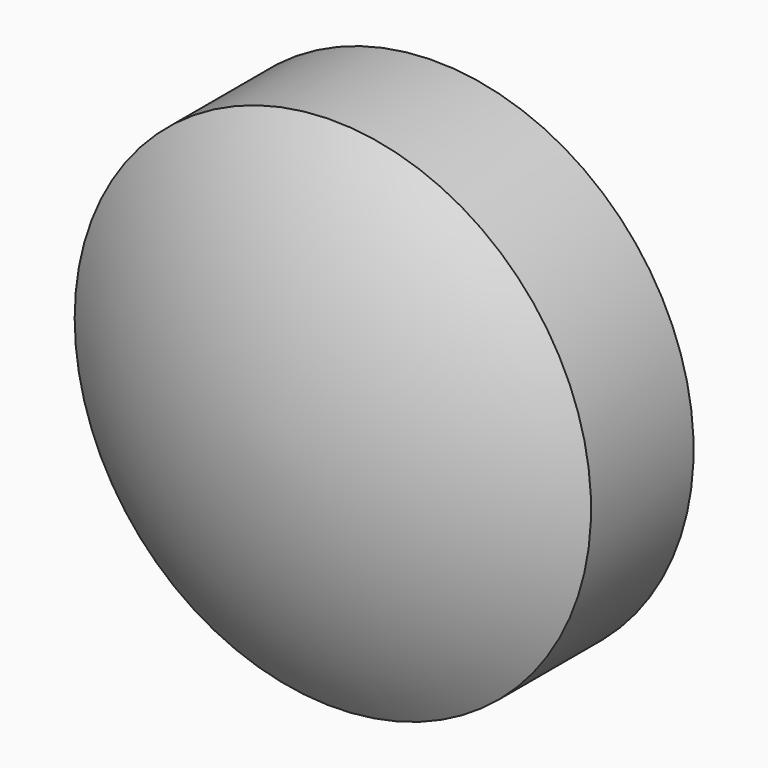
from build123d import *


with BuildPart() as f1:
    # F0 (on Top) → F1 (revolve)
    with BuildSketch(Plane.XY):
        with BuildLine():
            ThreePointArc((0, 38.1), (-11.4268852189, 36.3460629807), (-21.8016950046, 31.2457372281))
            Line((-21.8016950046, 31.2457372281), (-21.8016950046, 20.4216570565))
            ThreePointArc((-21.8016950046, 20.4216570565), (-11.4268852189, 15.321331304), (0, 13.5673942846))
            Line((0, 13.5673942846), (0, 38.1))
        make_face()
    revolve(axis=Axis((0, 25.8336971423, 0), (0, 1, 0)))


solid = f1.part
